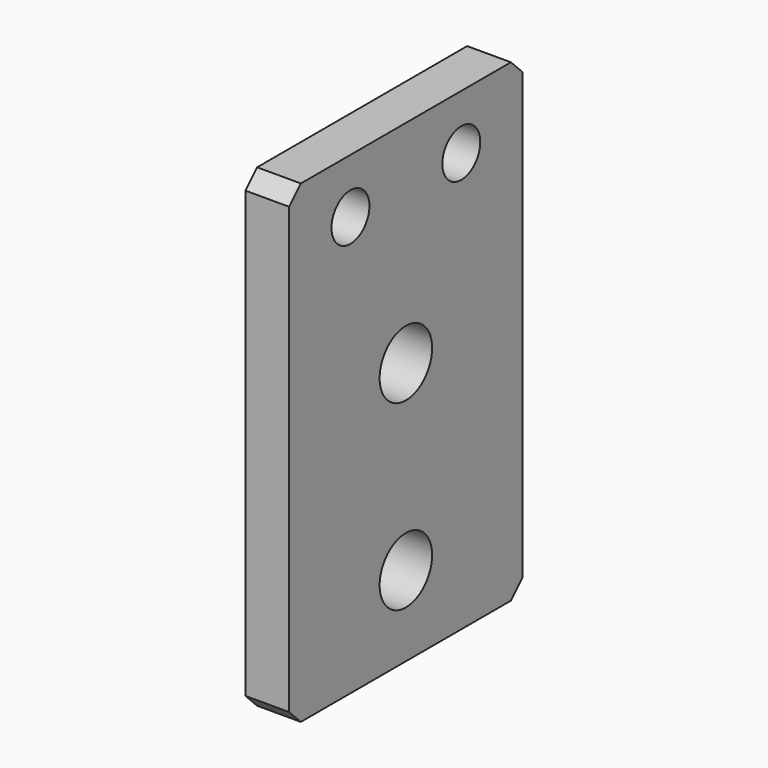
from build123d import *

# Parameters (mm, degrees)
F0_W     = 40
F0_H     = 65
F0_R     = 4.5
F0_R_2   = 3.25
F1_DEPTH = 6
F2_SIZE  = 2


with BuildPart() as f1:
    # F0 (on Right) → F1 (new body)
    with BuildSketch(Plane.YZ):
        with Locations((20, -32.5)):
            Rectangle(F0_W, F0_H)
        with Locations((20, -54)):
            Circle(F0_R, mode=Mode.SUBTRACT)
        with Locations((10.5, -7.5)):
            Circle(F0_R_2, mode=Mode.SUBTRACT)
        with Locations((20, -29)):
            Circle(F0_R, mode=Mode.SUBTRACT)
        with Locations((29.5, -7.5)):
            Circle(F0_R_2, mode=Mode.SUBTRACT)
    extrude(amount=F1_DEPTH)

    # F2
    f2_edges = [f1.edges().sort_by_distance(p)[0] for p in [
        (3, 0, -65),
        (3, 40, -65),
        (3, 40, 0),
        (3, 0, 0),
    ]]
    chamfer(f2_edges, length=F2_SIZE)


solid = f1.part
